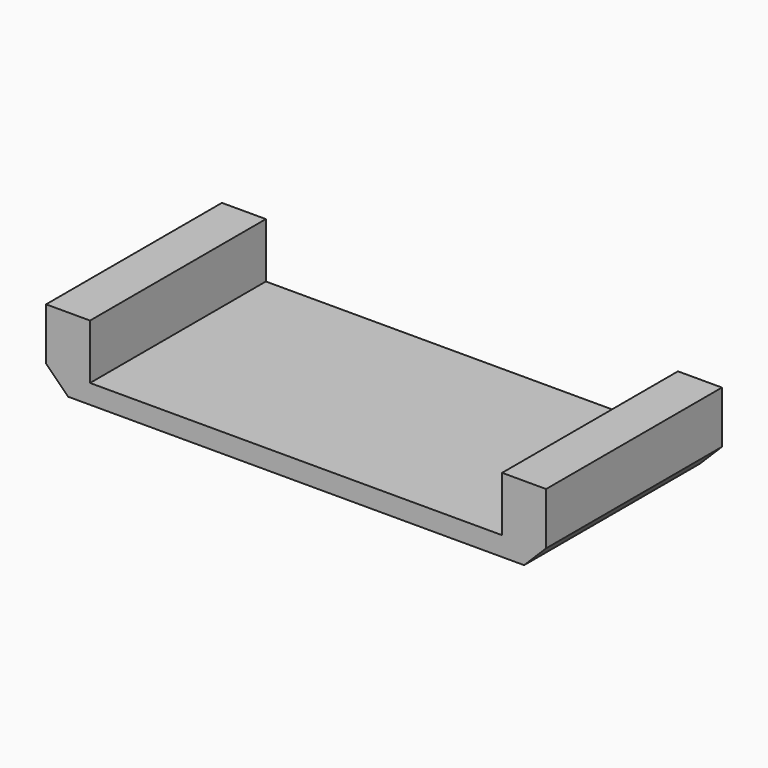
from build123d import *

# Parameters (mm, degrees)
F0_W     = 18.2
F0_H     = 8
F1_DEPTH = 2.7
F2_W     = 15
F2_H     = 8
F3_DEPTH = 2
F4_SIZE  = 0.8


with BuildPart() as f1:
    # F0 (on Top) → F1 (new body)
    with BuildSketch(Plane.XY):
        Rectangle(F0_W, F0_H)
    extrude(amount=F1_DEPTH)

    # F2 (on face) → F3 (cut)
    with BuildSketch(Plane.XY.offset(2.7)):
        Rectangle(F2_W, F2_H)
    extrude(amount=-F3_DEPTH, mode=Mode.SUBTRACT)

    # F4
    f4_edges = [f1.edges().sort_by_distance(p)[0] for p in [
        (-9.1, 0, 0),
        (9.1, 0, 0),
    ]]
    chamfer(f4_edges, length=F4_SIZE)


solid = f1.part
